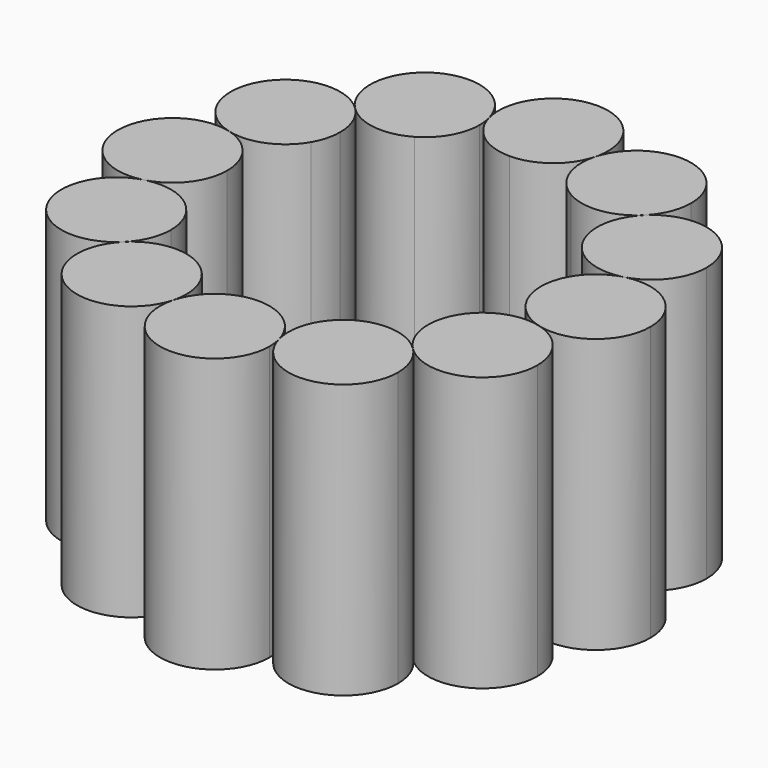
from build123d import *

# Parameters (mm, degrees)
F1_DEPTH = 25


with BuildPart() as f1:
    # F0 (on Top) → F1 (new body)
    with BuildSketch(Plane.XY):
        with BuildLine():
            ThreePointArc((-13.194792, 13.194792), (-10.311889, 11.773102), (-7.159258, 12.400199))
            ThreePointArc((-7.159258, 12.400199), (-5.329131, 14.230326), (-4.659258, 16.730326))
            ThreePointArc((-4.659258, 16.730326), (-4.702034, 17.382957), (-4.829629, 18.024421))
            ThreePointArc((-4.829629, 18.024421), (-12.159258, 21.060453), (-13.194792, 13.194792))
        make_face()
        with BuildLine():
            ThreePointArc((-4.829629, 18.024421), (-3.043807, 15.35175), (0, 14.318517))
            ThreePointArc((0, 14.318517), (3.043807, 15.35175), (4.829629, 18.024421))
            ThreePointArc((4.829629, 18.024421), (4.957224, 18.665886), (5, 19.318517))
            ThreePointArc((5, 19.318517), (-0.652631, 24.275741), (-4.829629, 18.024421))
        make_face()
        with BuildLine():
            ThreePointArc((4.829629, 18.024421), (5.039861, 14.816909), (7.159258, 12.400199))
            ThreePointArc((7.159258, 12.400199), (10.311889, 11.773102), (13.194792, 13.194792))
            ThreePointArc((13.194792, 13.194792), (14.278656, 14.816909), (14.659258, 16.730326))
            ThreePointArc((14.659258, 16.730326), (10.311889, 21.68755), (4.829629, 18.024421))
        make_face()
        with BuildLine():
            ThreePointArc((13.194792, 13.194792), (11.773102, 10.311889), (12.400199, 7.159258))
            ThreePointArc((12.400199, 7.159258), (14.816909, 5.039861), (18.024421, 4.829629))
            ThreePointArc((18.024421, 4.829629), (20.697093, 6.615451), (21.730326, 9.659258))
            ThreePointArc((21.730326, 9.659258), (18.643743, 14.278656), (13.194792, 13.194792))
        make_face()
        with BuildLine():
            ThreePointArc((18.024421, 4.829629), (15.35175, 3.043807), (14.318517, 0))
            ThreePointArc((14.318517, 0), (15.35175, -3.043807), (18.024421, -4.829629))
            ThreePointArc((18.024421, -4.829629), (22.362324, -3.966767), (24.318517, 0))
            ThreePointArc((24.318517, 0), (22.362324, 3.966767), (18.024421, 4.829629))
        make_face()
        with BuildLine():
            ThreePointArc((18.024421, -4.829629), (14.816909, -5.039861), (12.400199, -7.159258))
            ThreePointArc((12.400199, -7.159258), (11.773102, -10.311889), (13.194792, -13.194792))
            ThreePointArc((13.194792, -13.194792), (18.643743, -14.278656), (21.730326, -9.659258))
            ThreePointArc((21.730326, -9.659258), (20.697093, -6.615451), (18.024421, -4.829629))
        make_face()
        with BuildLine():
            ThreePointArc((13.194792, -13.194792), (10.311889, -11.773102), (7.159258, -12.400199))
            ThreePointArc((7.159258, -12.400199), (5.039861, -14.816909), (4.829629, -18.024421))
            ThreePointArc((4.829629, -18.024421), (10.311889, -21.68755), (14.659258, -16.730326))
            ThreePointArc((14.659258, -16.730326), (14.278656, -14.816909), (13.194792, -13.194792))
        make_face()
        with BuildLine():
            ThreePointArc((4.829629, -18.024421), (3.043807, -15.35175), (0, -14.318517))
            ThreePointArc((0, -14.318517), (-3.043807, -15.35175), (-4.829629, -18.024421))
            ThreePointArc((-4.829629, -18.024421), (-0.652631, -24.275741), (5, -19.318517))
            ThreePointArc((5, -19.318517), (4.957224, -18.665886), (4.829629, -18.024421))
        make_face()
        with BuildLine():
            ThreePointArc((-4.659258, -16.730326), (-5.329131, -14.230326), (-7.159258, -12.400199))
            ThreePointArc((-7.159258, -12.400199), (-10.311889, -11.773102), (-13.194792, -13.194792))
            ThreePointArc((-13.194792, -13.194792), (-12.159258, -21.060453), (-4.829629, -18.024421))
            ThreePointArc((-4.829629, -18.024421), (-4.702034, -17.382957), (-4.659258, -16.730326))
        make_face()
        with BuildLine():
            ThreePointArc((-11.730326, -9.659258), (-11.900697, -8.365163), (-12.400199, -7.159258))
            ThreePointArc((-12.400199, -7.159258), (-14.816909, -5.039861), (-18.024421, -4.829629))
            ThreePointArc((-18.024421, -4.829629), (-21.060453, -12.159258), (-13.194792, -13.194792))
            ThreePointArc((-13.194792, -13.194792), (-12.110928, -11.572675), (-11.730326, -9.659258))
        make_face()
        with BuildLine():
            ThreePointArc((-18.024421, -4.829629), (-15.35175, -3.043807), (-14.318517, 0))
            ThreePointArc((-14.318517, 0), (-15.35175, 3.043807), (-18.024421, 4.829629))
            ThreePointArc((-18.024421, 4.829629), (-24.318517, 0), (-18.024421, -4.829629))
        make_face()
        with BuildLine():
            ThreePointArc((-18.024421, 4.829629), (-14.816909, 5.039861), (-12.400199, 7.159258))
            ThreePointArc((-12.400199, 7.159258), (-11.900697, 8.365163), (-11.730326, 9.659258))
            ThreePointArc((-11.730326, 9.659258), (-12.110928, 11.572675), (-13.194792, 13.194792))
            ThreePointArc((-13.194792, 13.194792), (-21.060453, 12.159258), (-18.024421, 4.829629))
        make_face()
    extrude(amount=-F1_DEPTH)


solid = f1.part
